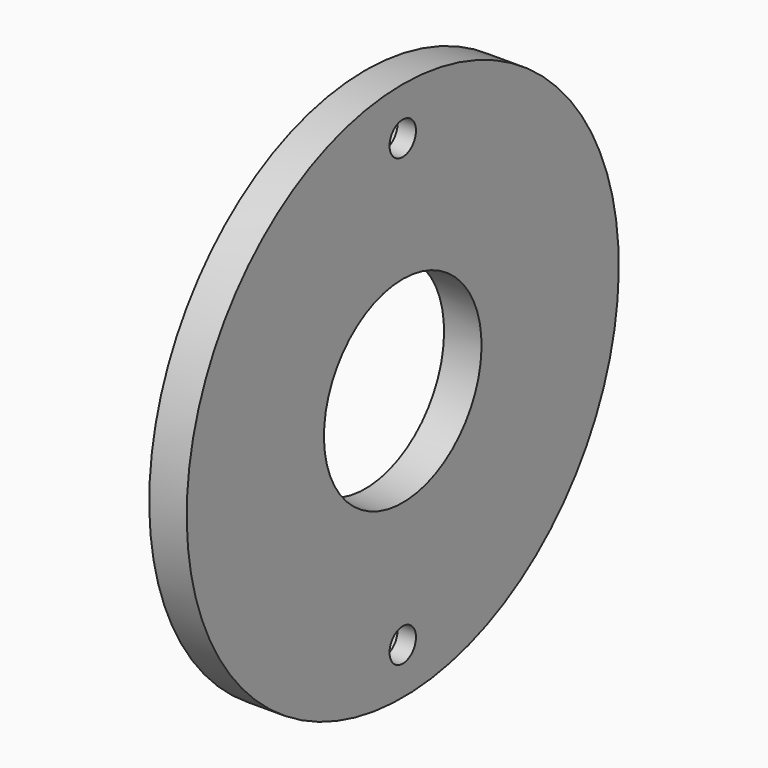
from build123d import *

# Parameters (mm, degrees)
F0_W     = 5.9
F0_H     = 27
F2_R     = 5.2
F3_DEPTH = 3
F4_R     = 2.6
F5_DEPTH = 25


with BuildPart() as f1:
    # F0 (on Front) → F1 (revolve)
    with BuildSketch(Plane.XZ):
        with Locations((5.399999, 29)):
            Rectangle(F0_W, F0_H)
    revolve(axis=Axis((-4.686111, 0, 0), (-1, 0, 0)))

    # F2 (on face) → F3 (cut)
    with BuildSketch(Plane(origin=(2.449999, 0, 0), x_dir=(0, -1, 0), z_dir=(-1, 0, 0))):
        with Locations((0, 35)):
            Circle(F2_R)
        with Locations((0, -35)):
            Circle(F2_R)
    extrude(amount=-F3_DEPTH, mode=Mode.SUBTRACT)

    # F4 (on face) → F5 (cut)
    with BuildSketch(Plane(origin=(5.449999, 0, 0), x_dir=(0, -1, 0), z_dir=(-1, 0, 0))):
        with Locations((0, -35.2)):
            Circle(F4_R)
        with Locations((0, 35)):
            Circle(F4_R)
    extrude(amount=-F5_DEPTH, mode=Mode.SUBTRACT)


solid = f1.part
